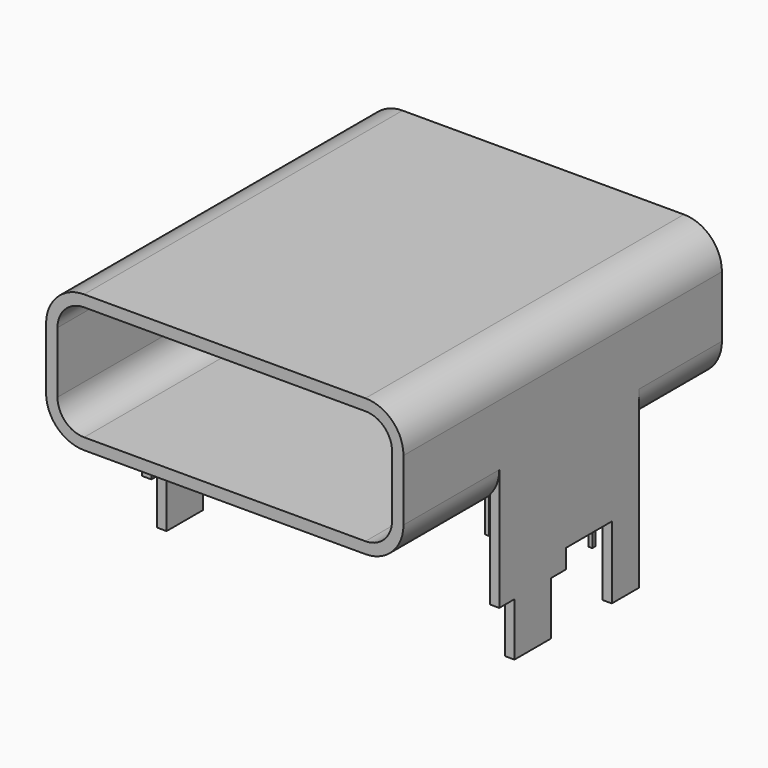
from build123d import *

# Parameters (mm, degrees)
F0_W      = 9.4
F0_H      = 3.61
F1_DEPTH  = 10.47
F2_R      = 1
F3_W      = 4.6
F3_H      = 1
F3_H_2    = 0.805
F4_DEPTH  = 0.25
F6_DEPTH  = 0.25
F8_DEPTH  = 5
F9_W      = 0.1
F9_H      = 0.1
F10_DEPTH = 3.6


with BuildPart() as f1:
    # F0 (on Front) → F1 (new body)
    with BuildSketch(Plane.XZ):
        with Locations((-0.355073555, 5.140078254)):
            Rectangle(F0_W, F0_H)
    extrude(amount=F1_DEPTH)

    # F2
    f2_edges = [f1.edges().sort_by_distance(p)[0] for p in [
        (4.344926, -5.235, 6.945078),
        (4.344926, -5.235, 3.335078),
        (-5.055074, -5.235, 6.945078),
        (-5.055074, -5.235, 3.335078),
    ]]
    fillet(f2_edges, radius=F2_R)

    # F3 (on face) → F4 (join)
    with BuildSketch(Plane.YZ.offset(4.344926445)):
        Polygon((-2.72, -0.264921746), (-2.72, 3.335078254), (-7.32, 3.335078254), (-7.32, 1.135078254), (-6.82, 1.135078254), (-6.82, -0.264921746), (-5.62, -0.264921746), (-5.62, 1.135078254), (-5.12, 1.135078254), (-5.12, 1.635078254), (-3.62, 1.635078254), (-3.62, -0.264921746), align=None)
        with Locations((-5.02, 3.835078254)):
            Rectangle(F3_W, F3_H)
        with Locations((-5.02, 4.737578254)):
            Rectangle(F3_W, F3_H_2)
    extrude(amount=-F4_DEPTH)

    # F5 (on face) → F6 (join)
    with BuildSketch(Plane(origin=(-5.055073555, 0, 0), x_dir=(0, -1, 0), z_dir=(-1, 0, 0))):
        Polygon((7.32, 1.135078254), (7.32, 4.335078254), (2.72, 4.335078254), (2.72, -0.264921746), (3.62, -0.264921746), (3.62, 1.635078254), (5.12, 1.635078254), (5.12, 1.135078254), (5.62, 1.135078254), (5.62, -0.264921746), (6.82, -0.264921746), (6.82, 1.135078254), align=None)
    extrude(amount=-F6_DEPTH)

    # F7 (on face) → F8 (cut)
    with BuildSketch(Plane.XZ.offset(10.47)):
        with BuildLine():
            Line((3.344926445, 6.645078254), (-4.055073555, 6.645078254))
            ThreePointArc((-4.055073555, 6.645078254), (-4.5500483018, 6.4400530009), (-4.755073555, 5.945078254))
            Line((-4.755073555, 5.945078254), (-4.755073555, 4.335078254))
            ThreePointArc((-4.755073555, 4.335078254), (-4.5500483018, 3.8401035072), (-4.055073555, 3.635078254))
            Line((-4.055073555, 3.635078254), (3.344926445, 3.635078254))
            ThreePointArc((3.344926445, 3.635078254), (3.8399011918, 3.8401035072), (4.044926445, 4.335078254))
            Line((4.044926445, 4.335078254), (4.044926445, 5.945078254))
            ThreePointArc((4.044926445, 5.945078254), (3.8399011918, 6.4400530009), (3.344926445, 6.645078254))
        make_face()
    extrude(amount=-F8_DEPTH, mode=Mode.SUBTRACT)

    # F9 (on face) → F10 (join, through all)
    with BuildSketch(Plane(origin=(0, 0, 3.335078254), x_dir=(1, 0, 0), z_dir=(0, 0, -1))):
        with Locations((-3.155073555, 1.9)):
            Rectangle(F9_W, F9_H)
        with Locations((-1.555073555, 1.9)):
            Rectangle(F9_W, F9_H)
        Polygon((-0.705073555, 1.95), (-0.805073555, 1.95), (-0.805073555, 1.85), (-0.705073555, 1.85), (-0.705073555, 1.9), align=None)
        Polygon((-0.005073555, 1.95), (-0.005073555, 1.9), (-0.005073555, 1.85), (0.094926445, 1.85), (0.094926445, 1.95), align=None)
        Polygon((-1.105073555, 2.85), (-1.205073555, 2.85), (-1.205073555, 2.75), (-1.105073555, 2.75), (-1.105073555, 2.8), align=None)
        with Locations((-1.955073555, 2.8)):
            Rectangle(F9_W, F9_H)
        with Locations((-2.755073555, 2.8)):
            Rectangle(F9_W, F9_H)
        Polygon((0.394926445, 2.85), (0.394926445, 2.8), (0.394926445, 2.75), (0.494926445, 2.75), (0.494926445, 2.85), align=None)
        with Locations((0.844926445, 1.9)):
            Rectangle(F9_W, F9_H)
        with Locations((1.244926445, 2.8)):
            Rectangle(F9_W, F9_H)
        with Locations((2.044926445, 2.8)):
            Rectangle(F9_W, F9_H)
        with Locations((2.444926445, 1.9)):
            Rectangle(F9_W, F9_H)
    extrude(amount=F10_DEPTH)


solid = f1.part
